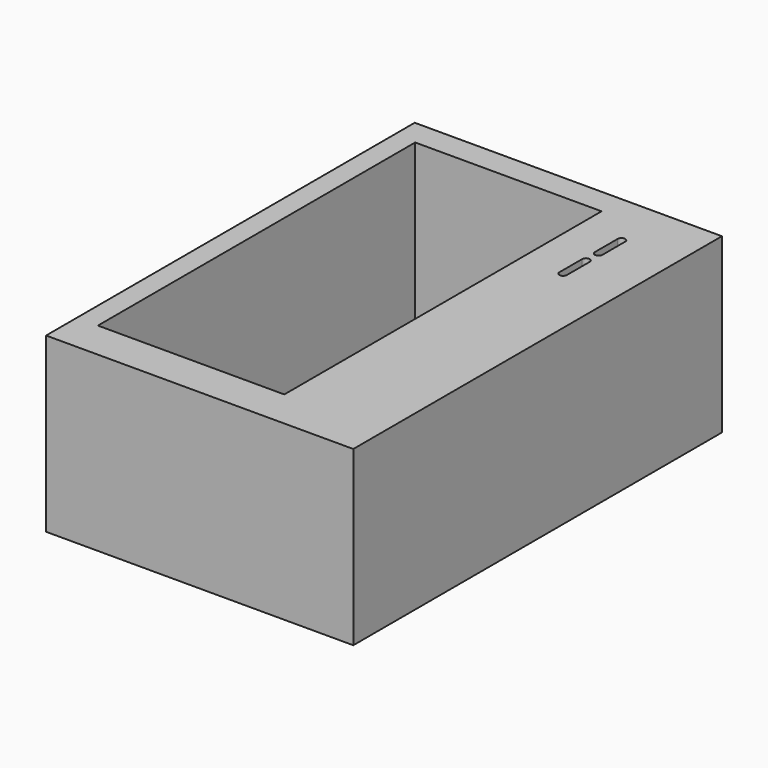
from build123d import *

# Parameters (mm, degrees)
F0_W     = 406.4
F0_H     = 609.6
F1_DEPTH = 203.2
F2_W     = 246.5967833996
F2_H     = 524.6225595474
F3_DEPTH = 196.85
F4_W     = 524.6225595474
F4_H     = 175.7622616529
F5_DEPTH = 107.4888
F6_W     = 406.4
F6_H     = 609.6
F6_W_2   = 246.5967833996
F6_H_2   = 524.6225595474
F7_DEPTH = 25.4


with BuildPart() as f1:
    # F0 (on Top) → F1 (new body)
    with BuildSketch(Plane.XY):
        Rectangle(F0_W, F0_H)
    extrude(amount=F1_DEPTH)

    # F2 (on face) → F3 (cut)
    with BuildSketch(Plane.XY.offset(203.2)):
        with Locations((-51.9739538431, 8.2974731922)):
            Rectangle(F2_W, F2_H)
    extrude(amount=-F3_DEPTH, mode=Mode.SUBTRACT)

    # F4 (on face) → F5 (cut)
    with BuildSketch(Plane(origin=(71.3244378567, 0, 0), x_dir=(0, -1, 0), z_dir=(-1, 0, 0))):
        with Locations((-8.2974731922, 94.2311308265)):
            Rectangle(F4_W, F4_H)
    extrude(amount=-F5_DEPTH, mode=Mode.SUBTRACT)

    # F6 (on face) → F7 (join)
    with BuildSketch(Plane.XY.offset(203.2)):
        Rectangle(F6_W, F6_H)
        with Locations((-51.9739538431, 8.2974731922)):
            Rectangle(F6_W_2, F6_H_2, mode=Mode.SUBTRACT)
        with BuildLine():
            ThreePointArc((132.4002933692, 174.6901672035), (132.4002933677, 174.6900416756), (132.4002933629, 174.6899161476))
            Line((132.4002933629, 174.6899161476), (132.3993421334, 136.9216628493))
            ThreePointArc((132.3993421334, 136.9216628493), (127.4147392292, 131.9386900836), (122.4331459754, 136.924671667))
            Line((122.4331459754, 136.924671667), (122.4547239005, 174.2168030567))
            ThreePointArc((122.4547239005, 174.2168030567), (127.1792936349, 179.66858125), (132.4002933692, 174.6901672035))
        make_face(mode=Mode.SUBTRACT)
        with BuildLine():
            ThreePointArc((132.8256002304, 232.8666895628), (132.8256002288, 232.8665640349), (132.8256002241, 232.866438507))
            Line((132.8256002241, 232.866438507), (132.8246489946, 195.0981852086))
            ThreePointArc((132.8246489946, 195.0981852086), (127.8400460904, 190.115212443), (122.8584528366, 195.1011940263))
            Line((122.8584528366, 195.1011940263), (122.8800307617, 232.393325416))
            ThreePointArc((122.8800307617, 232.393325416), (127.6046004961, 237.8451036093), (132.8256002304, 232.8666895628))
        make_face(mode=Mode.SUBTRACT)
    extrude(amount=F7_DEPTH)


solid = f1.part
